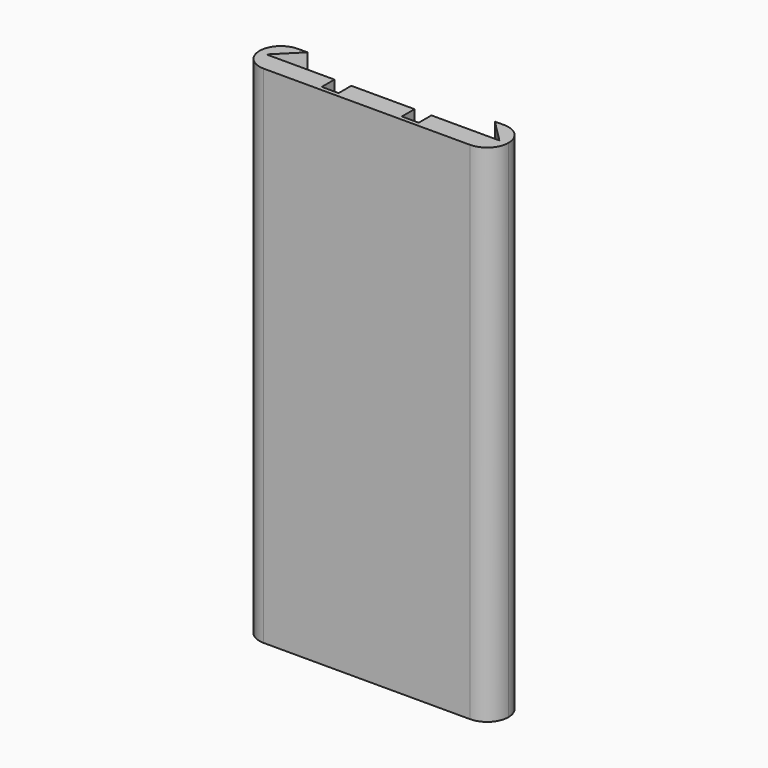
from build123d import *

# Parameters (mm, degrees)
F1_DEPTH = 120
F2_R     = 5.08


with BuildPart() as f1:
    # F0 (on Top) → F1 (new body)
    with BuildSketch(Plane.XY):
        Polygon((-29.556897, -7.150862), (29.556897, -7.150862), (29.556897, 3.024484), (22.241895, 3.024484), (27.65, -2.383621), (11.5057, -2.383621), (11.5057, -6.150862), (7.5057, -6.150862), (7.5057, -2.383621), (-7.5057, -2.383621), (-7.5057, -6.150862), (-11.5057, -6.150862), (-11.5057, -2.383621), (-27.65, -2.383621), (-22.241895, 3.024484), (-29.556897, 3.024484), align=None)
    extrude(amount=F1_DEPTH)

    # F2
    f2_edges = [f1.edges().sort_by_distance(p)[0] for p in [
        (-29.556897, 3.024484, 60),
        (-29.556897, -7.150862, 60),
        (29.556897, -7.150862, 60),
        (29.556897, 3.024484, 60),
    ]]
    fillet(f2_edges, radius=F2_R)


solid = f1.part
